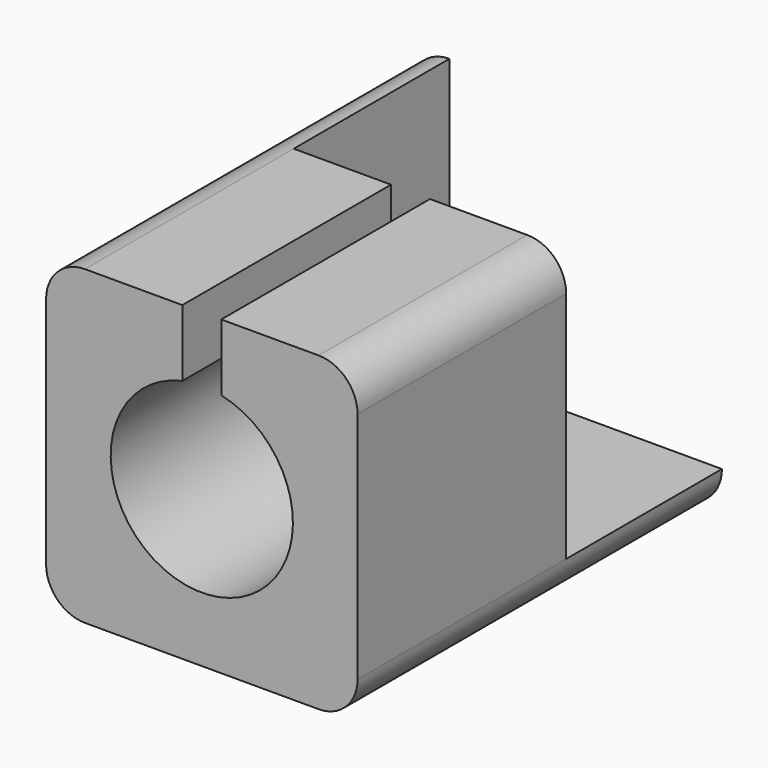
from build123d import *

# Parameters (mm, degrees)
F0_W      = 40
F0_H      = 40
F0_R      = 11.7
F1_DEPTH  = 3.5
F2_R      = 16.7
F2_R_2    = 11.7
F3_DEPTH  = 30
F4_W      = 5
F4_H      = 29.243415
F5_DEPTH  = 33.5
F6_W      = 40
F6_H      = 40
F6_R      = 16.7
F7_DEPTH  = 30.5
F9_DEPTH  = 37.3
F11_DEPTH = 25
F12_R     = 5


with BuildPart() as f1:
    # F0 (on Front) → F1 (new body)
    with BuildSketch(Plane.XZ):
        Rectangle(F0_W, F0_H)
        Circle(F0_R, mode=Mode.SUBTRACT)
    extrude(amount=F1_DEPTH)

    # F2 (on face) → F3 (join)
    with BuildSketch(Plane.XZ.offset(3.5)):
        Circle(F2_R)
        Circle(F2_R_2, mode=Mode.SUBTRACT)
    extrude(amount=F3_DEPTH)

    # F4 (on face) → F5 (cut, through all)
    with BuildSketch(Plane.XZ.offset(33.5)):
        with Locations((0, 14.621707)):
            Rectangle(F4_W, F4_H)
    extrude(amount=-F5_DEPTH, mode=Mode.SUBTRACT)

    # F6 (on face) → F7 (join)
    with BuildSketch(Plane.XZ.offset(33.5)):
        Rectangle(F6_W, F6_H)
        Circle(F6_R, mode=Mode.SUBTRACT)
    extrude(amount=-F7_DEPTH)

    # F8 (on face) → F9 (cut)
    with BuildSketch(Plane.XZ.offset(33.5)):
        Polygon((2.5, 7.926429), (2.5, 11.429786), (2.5, 21.552972), (-2.5, 21.552972), (-2.5, 7.926429), align=None)
    extrude(amount=-F9_DEPTH, mode=Mode.SUBTRACT)

    # F10 (on face) → F11 (join)
    with BuildSketch(Plane(origin=(0, 0, 0), x_dir=(-1, 0, 0), z_dir=(0, 1, 0))):
        Polygon((20, -20), (20, 20), (15, 20), (15, -15), (-20, -15), (-20, -20), align=None)
    extrude(amount=F11_DEPTH)

    # F12
    f12_edges = [f1.edges().sort_by_distance(p)[0] for p in [
        (-20, -4.25, -20),
        (-20, -4.25, 20),
        (20, -4.25, -20),
        (20, -16.75, 20),
    ]]
    fillet(f12_edges, radius=F12_R)


solid = f1.part
